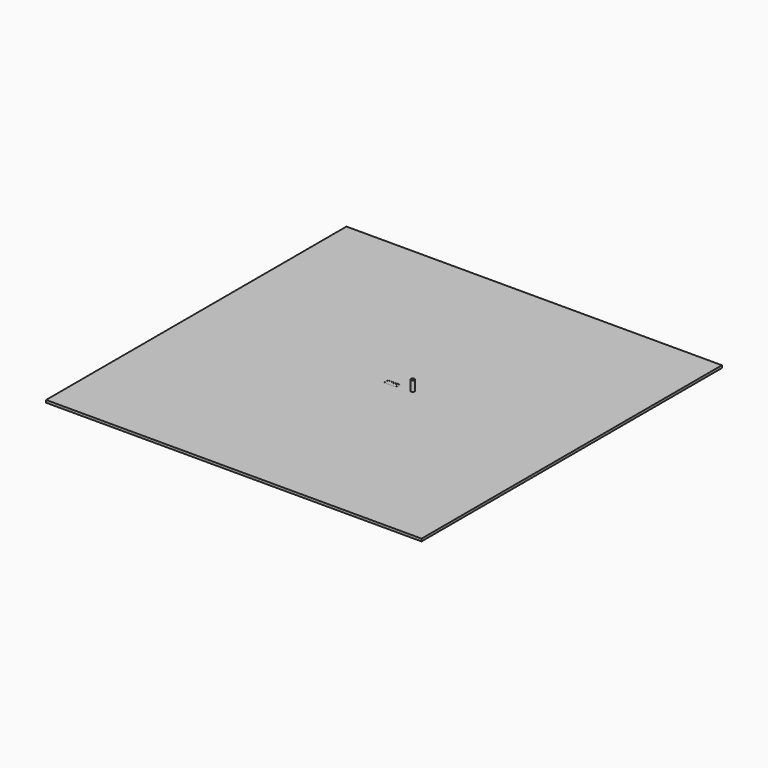
from build123d import *

# Parameters (mm, degrees)
F0_W     = 300
F0_H     = 300
F1_DEPTH = 2
F2_W     = 10
F2_H     = 4
F3_DEPTH = 0.1
F4_W     = 0.3
F4_H     = 0.3
F5_DEPTH = 3
F6_R     = 1.5
F7_DEPTH = 10


with BuildPart() as f1:
    # F0 (on Top) → F1 (new body)
    with BuildSketch(Plane.XY):
        Rectangle(F0_W, F0_H)
    extrude(amount=F1_DEPTH)

    # F2 (on face) → F3 (cut)
    with BuildSketch(Plane.XY.offset(2)):
        with Locations((5, 2)):
            Rectangle(F2_W, F2_H)
    extrude(amount=-F3_DEPTH, mode=Mode.SUBTRACT)

    # F4 (on face) → F5 (cut)
    with BuildSketch(Plane.XY.offset(2)):
        with Locations((1.15, 3.15)):
            Rectangle(F4_W, F4_H)
        with Locations((1.15, 1.15)):
            Rectangle(F4_W, F4_H)
        with Locations((3.15, 3.15)):
            Rectangle(F4_W, F4_H)
        with Locations((3.15, 1.15)):
            Rectangle(F4_W, F4_H)
        with Locations((5.15, 3.15)):
            Rectangle(F4_W, F4_H)
        with Locations((5.15, 1.15)):
            Rectangle(F4_W, F4_H)
        with Locations((7.15, 3.15)):
            Rectangle(F4_W, F4_H)
        with Locations((7.15, 1.15)):
            Rectangle(F4_W, F4_H)
        with Locations((9.15, 3.15)):
            Rectangle(F4_W, F4_H)
        with Locations((9.15, 1.15)):
            Rectangle(F4_W, F4_H)
    extrude(amount=-F5_DEPTH, mode=Mode.SUBTRACT)

    # F6 (on Top) → F7 (join)
    with BuildSketch(Plane.XY):
        with Locations((21, 2.5)):
            Circle(F6_R)
    extrude(amount=F7_DEPTH)


solid = f1.part
